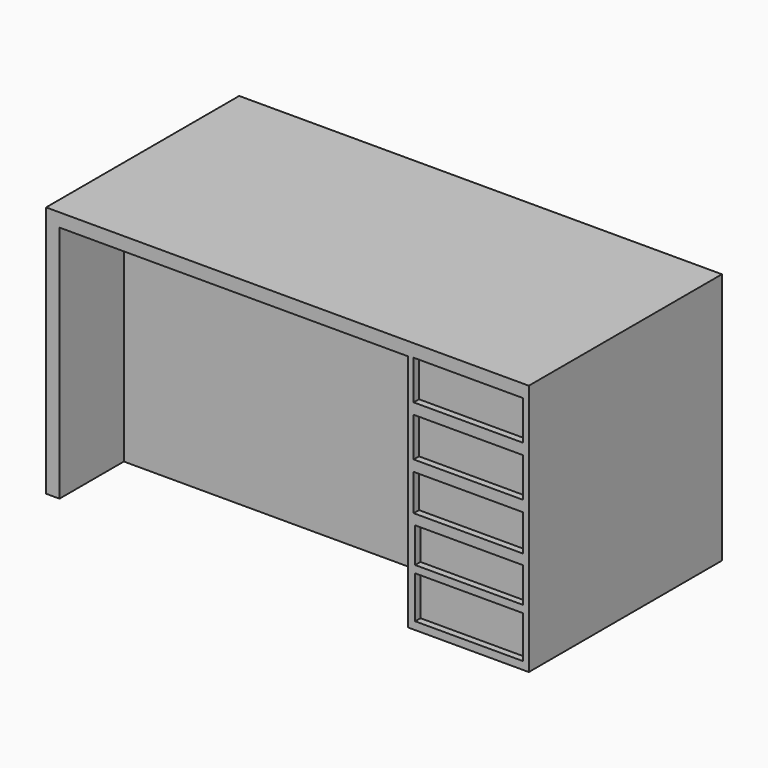
from build123d import *

# Parameters (mm, degrees)
F1_DEPTH  = 900
F2_W      = 407.300591
F2_H      = 146.628201
F2_H_2    = 135.766893
F2_W_2    = 401.869893
F2_H_3    = 130.336196
F2_H_4    = 157.489581
F3_DEPTH  = 25
F4_W      = 1300
F4_H      = 36.11542
F5_DEPTH  = 890
F6_W      = 600
F6_H      = 890
F7_DEPTH  = 551
F5_FACE_W = 700
F5_FACE_H = 890
F8_DEPTH  = 551
F9_W      = 600
F9_H      = 890
F9_W_2    = 661.644458
F9_H_2    = 159.129679
F9_W_3    = 657.456815
F9_H_3    = 163.317263
F9_H_4    = 146.566809
F9_H_5    = 121.441066
F9_H_6    = 134.001598
F10_DEPTH = 5
F11_W     = 597.374253
F11_H     = 863.477323
F12_DEPTH = 2


with BuildPart() as f1:
    # F0 (on Front) → F1 (new body)
    with BuildSketch(Plane.XZ):
        Polygon((0, 940), (0, 0), (50, 0), (50, 890), (1350, 890), (1350, 0), (1800, 0), (1800, 940), align=None)
    extrude(amount=-F1_DEPTH)

    # F2 (on face) → F3 (cut)
    with BuildSketch(Plane.XZ):
        with Locations((1574.287116, 819.035083)):
            Rectangle(F2_W, F2_H)
        with Locations((1574.287116, 631.676822)):
            Rectangle(F2_W, F2_H)
        with Locations((1574.287116, 449.749216)):
            Rectangle(F2_W, F2_H_2)
        with Locations((1577.002465, 278.682962)):
            Rectangle(F2_W_2, F2_H_3)
        with Locations((1577.002465, 107.616686)):
            Rectangle(F2_W_2, F2_H_4)
    extrude(amount=-F3_DEPTH, mode=Mode.SUBTRACT)

    # F4 (on face) → F5 (join, through all)
    with BuildSketch(Plane(origin=(0, 0, 890), x_dir=(1, 0, 0), z_dir=(0, 0, -1))):
        with Locations((700, -318.05771)):
            Rectangle(F4_W, F4_H)
    extrude(amount=F5_DEPTH)

    # F6 (on face) → F7 (join)
    with BuildSketch(Plane(origin=(0, 336.11542, 0), x_dir=(-1, 0, 0), z_dir=(0, 1, 0))):
        with Locations((-350, 445)):
            Rectangle(F6_W, F6_H)
    extrude(amount=F7_DEPTH)

    # F5_face (on face) → F8 (join, through all)
    with BuildSketch(Plane(origin=(700, 336.11542, 445), x_dir=(-1, 0, 0), z_dir=(0, 1, 0))):
        with Locations((-300, 0)):
            Rectangle(F5_FACE_W, F5_FACE_H)
    extrude(amount=F8_DEPTH)

    # F9 (on face) → F10 (join)
    with BuildSketch(Plane(origin=(0, 900, 0), x_dir=(-1, 0, 0), z_dir=(0, 1, 0))):
        with Locations((-350, 445)):
            Rectangle(F9_W, F9_H)
        with Locations((-999.644637, 794.729382)):
            Rectangle(F9_W_2, F9_H_2)
        with Locations((-1001.738458, 616.755396)):
            Rectangle(F9_W_3, F9_H_3)
        with Locations((-1001.738458, 436.687618)):
            Rectangle(F9_W_3, F9_H_4)
        with Locations((-1001.738458, 277.014673)):
            Rectangle(F9_W_3, F9_H_5)
        with Locations((-1001.738458, 115.792371)):
            Rectangle(F9_W_3, F9_H_6)
    extrude(amount=-F10_DEPTH)

    # F11 (on face) → F12 (cut)
    with BuildSketch(Plane(origin=(0, 900, 0), x_dir=(-1, 0, 0), z_dir=(0, 1, 0))):
        with Locations((-327.994381, 457.60454)):
            Rectangle(F11_W, F11_H)
    extrude(amount=-F12_DEPTH, mode=Mode.SUBTRACT)


solid = f1.part
